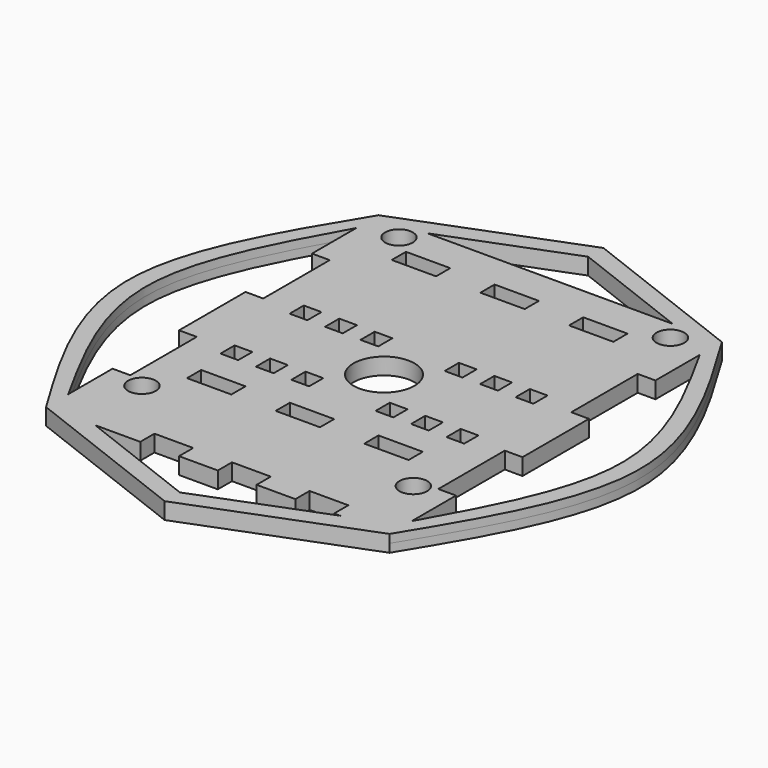
from build123d import *

# Parameters (mm, degrees)
F0_R     = 2.5
F0_W     = 8
F0_H     = 3.2
F0_W_2   = 3.2
F0_R_2   = 5.5
F1_DEPTH = 1.5


with BuildPart() as f1:
    # F0 (on Top) → F1 (new body, symmetric)
    with BuildSketch(Plane.XY):
        with BuildLine():
            Line((31, 22.5), (27.8, 22.5))
            Line((27.8, 22.5), (27.8, 7.5))
            Line((27.8, 7.5), (31, 7.5))
            Line((31, 7.5), (31, -7.5))
            Line((31, -7.5), (27.8, -7.5))
            Line((27.8, -7.5), (27.8, -22.5))
            Line((27.8, -22.5), (31, -22.5))
            Line((31, -22.5), (31, -32.5))
            add(Edge.make_bspline(
                [(31, -32.5), (37, -21.666667), (49, 0), (37, 21.666667), (31, 32.5)],
                knots=[0, 0, 0, 0, 34.644624, 69.289249, 69.289249, 69.289249, 69.289249], degree=3))
            Line((31, 32.5), (31, 22.5))
        make_face()
        with BuildLine():
            Line((0, 49.5), (-31, 37.5))
            add(Edge.make_bspline(
                [(-31, 37.5), (-38.6, 25), (-53.8, 0), (-38.6, -25), (-31, -37.5)],
                knots=[0, 0, 0, 0, 40.46344, 80.926881, 80.926881, 80.926881, 80.926881], degree=3))
            Line((-31, -37.5), (0, -49.5))
            Line((0, -49.5), (31, -37.5))
            add(Edge.make_bspline(
                [(31, 37.5), (38.6, 25), (53.8, 0), (38.6, -25), (31, -37.5)],
                knots=[0, 0, 0, 0, 40.46344, 80.926881, 80.926881, 80.926881, 80.926881], degree=3))
            Line((31, 37.5), (0, 49.5))
        make_face()
        with Locations((-24.5, -24)):
            Circle(F0_R, mode=Mode.SUBTRACT)
        with Locations((-17, -16.6)):
            Rectangle(F0_W, F0_H, mode=Mode.SUBTRACT)
        with Locations((-1, -16.6)):
            Rectangle(F0_W, F0_H, mode=Mode.SUBTRACT)
        with Locations((-20.4, -7.8)):
            Rectangle(F0_W_2, F0_H, mode=Mode.SUBTRACT)
        with Locations((-14, -7.8)):
            Rectangle(F0_W_2, F0_H, mode=Mode.SUBTRACT)
        with Locations((-7.6, -7.8)):
            Rectangle(F0_W_2, F0_H, mode=Mode.SUBTRACT)
        Polygon((0, -46.068615), (-22.135589, -37.5), (-21, -37.5), (-14, -37.5), (-14, -34.3), (-7, -34.3), (-7, -37.5), (0, -37.5), (0, -34.3), (7, -34.3), (7, -37.5), (14, -37.5), (14, -34.3), (21, -34.3), (21, -37.5), (22.135589, -37.5), align=None, mode=Mode.SUBTRACT)
        with Locations((24.5, -24)):
            Circle(F0_R, mode=Mode.SUBTRACT)
        with Locations((15, -16.6)):
            Rectangle(F0_W, F0_H, mode=Mode.SUBTRACT)
        with Locations((7.6, -7.8)):
            Rectangle(F0_W_2, F0_H, mode=Mode.SUBTRACT)
        with Locations((14, -7.8)):
            Rectangle(F0_W_2, F0_H, mode=Mode.SUBTRACT)
        with Locations((20.4, -7.8)):
            Rectangle(F0_W_2, F0_H, mode=Mode.SUBTRACT)
        with BuildLine():
            Line((-31, -22.5), (-31, -32.5))
            add(Edge.make_bspline(
                [(-31, 32.5), (-37, 21.666667), (-49, 0), (-37, -21.666667), (-31, -32.5)],
                knots=[0, 0, 0, 0, 34.644624, 69.289249, 69.289249, 69.289249, 69.289249], degree=3))
            Line((-31, 32.5), (-31, 22.5))
            Line((-31, 22.5), (-27.8, 22.5))
            Line((-27.8, 22.5), (-27.8, 7.5))
            Line((-27.8, 7.5), (-31, 7.5))
            Line((-31, 7.5), (-31, -7.5))
            Line((-31, -7.5), (-27.8, -7.5))
            Line((-27.8, -7.5), (-27.8, -22.5))
            Line((-27.8, -22.5), (-31, -22.5))
        make_face(mode=Mode.SUBTRACT)
        with Locations((-20.4, 7.8)):
            Rectangle(F0_W_2, F0_H, mode=Mode.SUBTRACT)
        with Locations((-14, 7.8)):
            Rectangle(F0_W_2, F0_H, mode=Mode.SUBTRACT)
        with Locations((-7.6, 7.8)):
            Rectangle(F0_W_2, F0_H, mode=Mode.SUBTRACT)
        with Locations((-17, 29.6)):
            Rectangle(F0_W, F0_H, mode=Mode.SUBTRACT)
        with Locations((-24.5, 34)):
            Circle(F0_R, mode=Mode.SUBTRACT)
        with Locations((-1, 29.6)):
            Rectangle(F0_W, F0_H, mode=Mode.SUBTRACT)
        Circle(F0_R_2, mode=Mode.SUBTRACT)
        with Locations((7.6, 7.8)):
            Rectangle(F0_W_2, F0_H, mode=Mode.SUBTRACT)
        with Locations((14, 7.8)):
            Rectangle(F0_W_2, F0_H, mode=Mode.SUBTRACT)
        with Locations((20.4, 7.8)):
            Rectangle(F0_W_2, F0_H, mode=Mode.SUBTRACT)
        with BuildLine():
            Line((27.8, 7.5), (27.8, 22.5))
            Line((27.8, 22.5), (31, 22.5))
            Line((31, 22.5), (31, 32.5))
            add(Edge.make_bspline(
                [(31, -32.5), (37, -21.666667), (49, 0), (37, 21.666667), (31, 32.5)],
                knots=[0, 0, 0, 0, 34.644624, 69.289249, 69.289249, 69.289249, 69.289249], degree=3))
            Line((31, -32.5), (31, -22.5))
            Line((31, -22.5), (27.8, -22.5))
            Line((27.8, -22.5), (27.8, -7.5))
            Line((27.8, -7.5), (31, -7.5))
            Line((31, -7.5), (31, 7.5))
            Line((31, 7.5), (27.8, 7.5))
        make_face(mode=Mode.SUBTRACT)
        with Locations((15, 29.6)):
            Rectangle(F0_W, F0_H, mode=Mode.SUBTRACT)
        with Locations((24.5, 34)):
            Circle(F0_R, mode=Mode.SUBTRACT)
        Polygon((22.135589, 37.5), (0, 37.5), (-22.135589, 37.5), (0, 46.068615), align=None, mode=Mode.SUBTRACT)
    extrude(amount=F1_DEPTH, both=True)


solid = f1.part
